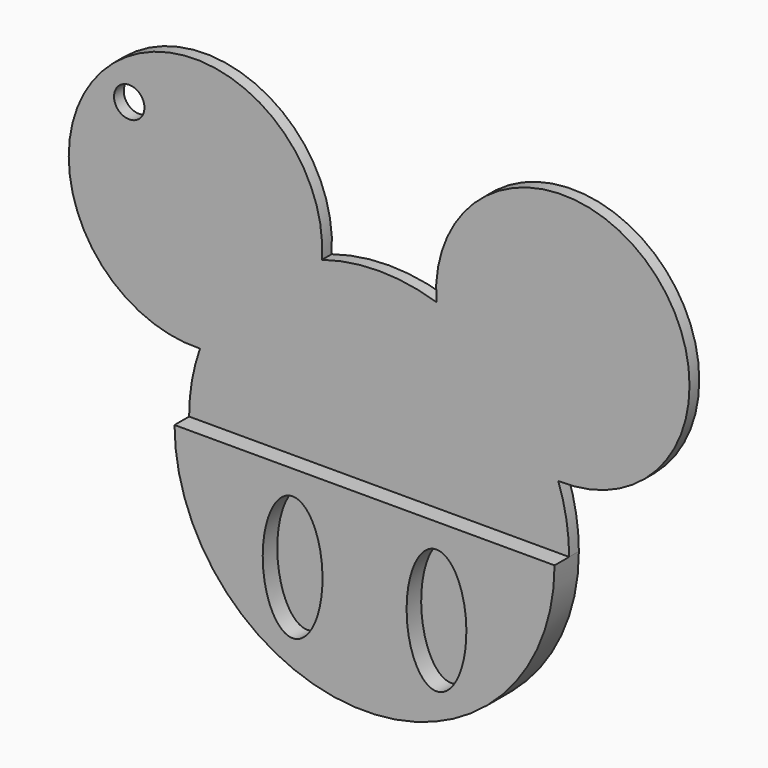
from build123d import *

# Parameters (mm, degrees)
F0_R     = 2.5
F1_DEPTH = 2
F2_DEPTH = 5


with BuildPart() as f1:
    # F0 (on Front) → F1 (new body)
    with BuildSketch(Plane.XZ):
        with BuildLine():
            ThreePointArc((-14.98756, 29.800454), (-50.269077, 46.239108), (-35.042782, 10.41768))
            ThreePointArc((-35.042782, 10.41768), (-36.380222, 5.284967), (-36.830358, 0))
            Line((-36.830358, 0), (25.669642, 0))
            ThreePointArc((25.669642, 0), (25.219507, 5.284967), (23.882067, 10.41768))
            ThreePointArc((23.882067, 10.41768), (39.108362, 46.239108), (3.826845, 29.800454))
            ThreePointArc((3.826845, 29.800454), (-5.580358, 31.25), (-14.98756, 29.800454))
        make_face()
        with Locations((-46.679139, 42.317488)):
            Circle(F0_R, mode=Mode.SUBTRACT)
        with BuildLine():
            Line((25.669642, 0), (-36.830358, 0))
            ThreePointArc((-36.830358, 0), (-5.580358, -31.25), (25.669642, 0))
        make_face()
        with BuildLine():
            add(Edge.make_bspline(
                [(-17.410715, -4.017858), (-25.924373, -4.017858), (-21.667544, -19.419644), (-17.410715, -34.821431), (-13.153887, -19.419644), (-8.897058, -4.017858), (-17.410715, -4.017858)],
                knots=[0, 0, 0, 2.094395, 2.094395, 4.18879, 4.18879, 6.283185, 6.283185, 6.283185], degree=2, weights=[1, 0.5, 1, 0.5, 1, 0.5, 1]))
        make_face(mode=Mode.SUBTRACT)
        with BuildLine():
            add(Edge.make_bspline(
                [(6.25, -4.017858), (-2.263657, -4.017858), (1.993172, -19.419644), (6.25, -34.821431), (10.506829, -19.419644), (14.763657, -4.017858), (6.25, -4.017858)],
                knots=[0, 0, 0, 2.094395, 2.094395, 4.18879, 4.18879, 6.283185, 6.283185, 6.283185], degree=2, weights=[1, 0.5, 1, 0.5, 1, 0.5, 1]))
        make_face(mode=Mode.SUBTRACT)
        with BuildLine():
            add(Edge.make_bspline(
                [(-17.410715, -4.017858), (-25.924373, -4.017858), (-21.667544, -19.419644), (-17.410715, -34.821431), (-13.153887, -19.419644), (-8.897058, -4.017858), (-17.410715, -4.017858)],
                knots=[0, 0, 0, 2.094395, 2.094395, 4.18879, 4.18879, 6.283185, 6.283185, 6.283185], degree=2, weights=[1, 0.5, 1, 0.5, 1, 0.5, 1]))
        make_face()
        with BuildLine():
            add(Edge.make_bspline(
                [(6.25, -4.017858), (-2.263657, -4.017858), (1.993172, -19.419644), (6.25, -34.821431), (10.506829, -19.419644), (14.763657, -4.017858), (6.25, -4.017858)],
                knots=[0, 0, 0, 2.094395, 2.094395, 4.18879, 4.18879, 6.283185, 6.283185, 6.283185], degree=2, weights=[1, 0.5, 1, 0.5, 1, 0.5, 1]))
        make_face()
    extrude(amount=F1_DEPTH)

    # F0 (on Front) → F2 (join)
    with BuildSketch(Plane.XZ):
        with BuildLine():
            Line((25.669642, 0), (-36.830358, 0))
            ThreePointArc((-36.830358, 0), (-5.580358, -31.25), (25.669642, 0))
        make_face()
        with BuildLine():
            add(Edge.make_bspline(
                [(-17.410715, -4.017858), (-25.924373, -4.017858), (-21.667544, -19.419644), (-17.410715, -34.821431), (-13.153887, -19.419644), (-8.897058, -4.017858), (-17.410715, -4.017858)],
                knots=[0, 0, 0, 2.094395, 2.094395, 4.18879, 4.18879, 6.283185, 6.283185, 6.283185], degree=2, weights=[1, 0.5, 1, 0.5, 1, 0.5, 1]))
        make_face(mode=Mode.SUBTRACT)
        with BuildLine():
            add(Edge.make_bspline(
                [(6.25, -4.017858), (-2.263657, -4.017858), (1.993172, -19.419644), (6.25, -34.821431), (10.506829, -19.419644), (14.763657, -4.017858), (6.25, -4.017858)],
                knots=[0, 0, 0, 2.094395, 2.094395, 4.18879, 4.18879, 6.283185, 6.283185, 6.283185], degree=2, weights=[1, 0.5, 1, 0.5, 1, 0.5, 1]))
        make_face(mode=Mode.SUBTRACT)
    extrude(amount=F2_DEPTH)


solid = f1.part
